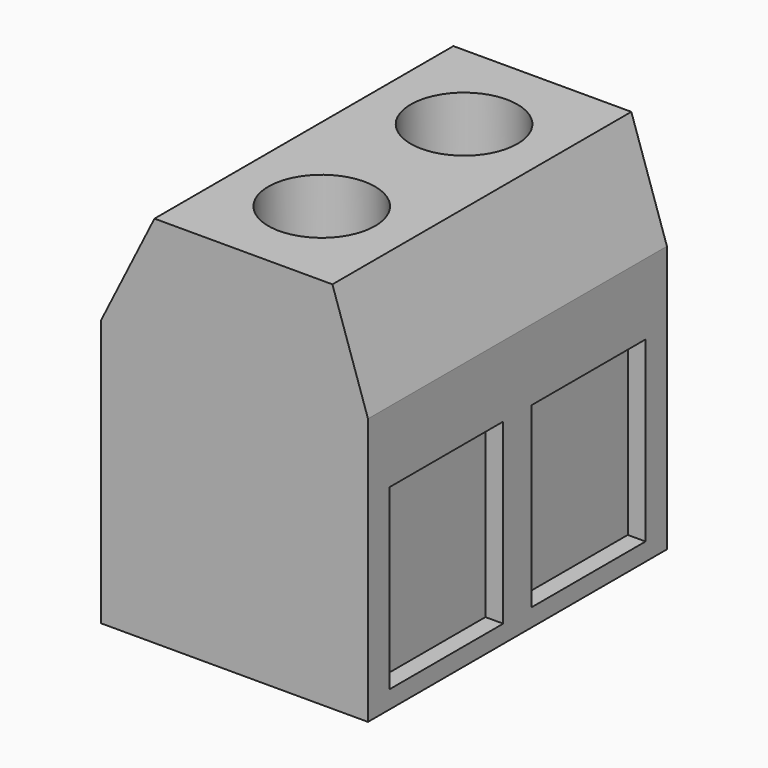
from build123d import *

# Parameters (mm, degrees)
F0_W     = 7.5
F0_H     = 10.5
F1_DEPTH = 10.5
F2_SIZE2 = 3
F2_SIZE  = 1.5
F3_SIZE2 = 1
F3_SIZE  = 3
F4_R     = 1.5
F5_DEPTH = 2
F6_W     = 4
F6_H     = 5
F7_DEPTH = 0.5


with BuildPart() as f1:
    # F0 (on Front) → F1 (new body)
    with BuildSketch(Plane.XZ):
        with Locations((-3.75, 5.25)):
            Rectangle(F0_W, F0_H)
    extrude(amount=-F1_DEPTH)

    # F2
    f2_edges = [f1.edges().sort_by_distance(p)[0] for p in [
        (-7.5, 5.25, 10.5),
    ]]
    f2_side = f1.faces().sort_by_distance((-3.75, 5.25, 10.5))[0]
    chamfer(f2_edges, length=F2_SIZE, length2=F2_SIZE2, reference=f2_side)

    # F3
    f3_edges = [f1.edges().sort_by_distance(p)[0] for p in [
        (0, 5.25, 10.5),
    ]]
    f3_side = f1.faces().sort_by_distance((0, 5.25, 5.25))[0]
    chamfer(f3_edges, length=F3_SIZE, length2=F3_SIZE2, reference=f3_side)

    # F4 (on face) → F5 (cut)
    with BuildSketch(Plane.XY.offset(10.5)):
        with Locations((-3.5, 2.75)):
            Circle(F4_R)
        with Locations((-3.5, 7.75)):
            Circle(F4_R)
    extrude(amount=-F5_DEPTH, mode=Mode.SUBTRACT)

    # F6 (on face) → F7 (cut)
    with BuildSketch(Plane.YZ):
        with Locations((2.75, 3)):
            Rectangle(F6_W, F6_H)
        with Locations((7.75, 3)):
            Rectangle(F6_W, F6_H)
    extrude(amount=-F7_DEPTH, mode=Mode.SUBTRACT)


solid = f1.part
